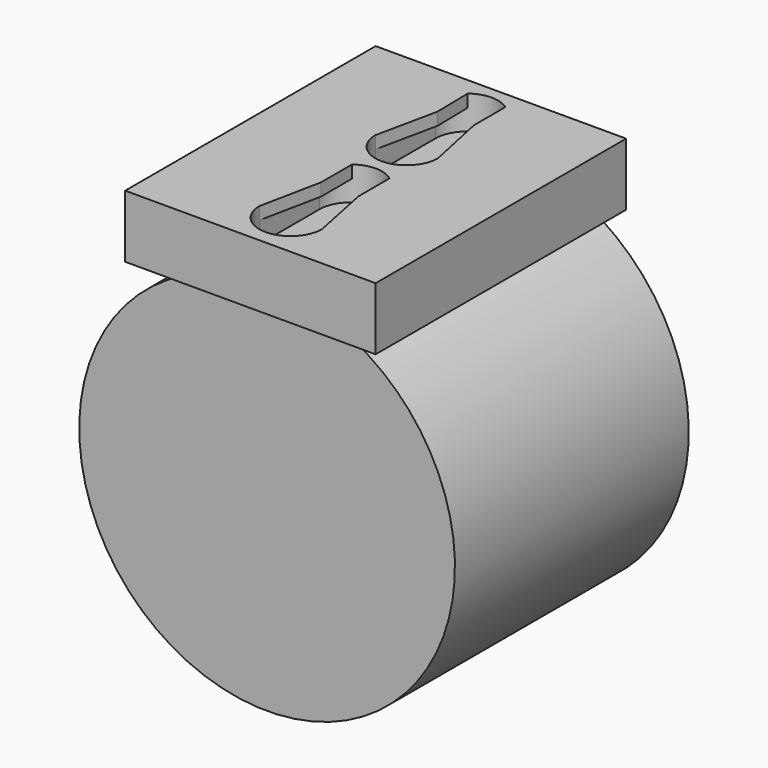
from build123d import *

# Parameters (mm, degrees)
F0_R     = 45
F1_DEPTH = 70
F2_W     = 60
F2_H     = 15
F3_DEPTH = 75
F5_DEPTH = 8
F7_DEPTH = 3


with BuildPart() as f1:
    # F0 (on Front) → F1 (new body)
    with BuildSketch(Plane.XZ):
        Circle(F0_R)
    extrude(amount=F1_DEPTH)

    # F2 (on Front) → F3 (join)
    with BuildSketch(Plane.XZ):
        with Locations((0, 49.5)):
            Rectangle(F2_W, F2_H)
    extrude(amount=F3_DEPTH)

    # F4 (on face) → F5 (cut)
    with BuildSketch(Plane.XY.offset(57)):
        with BuildLine():
            Line((7.5, -28.2193734366), (-7.5, -28.2193734366))
            ThreePointArc((-7.5, -28.2193734366), (0, -35.7193734366), (7.5, -28.2193734366))
        make_face()
        with BuildLine():
            ThreePointArc((7.5, -28.2193734366), (0, -20.7193734366), (-7.5, -28.2193734366))
            Line((-7.5, -28.2193734366), (7.5, -28.2193734366))
        make_face()
        with BuildLine():
            Line((7.5, -10.2193734366), (-7.5, -10.2193734366))
            ThreePointArc((-7.5, -10.2193734366), (0, -17.7193734366), (7.5, -10.2193734366))
        make_face()
        with BuildLine():
            Line((8.5, -46.1915741923), (-6.5, -46.1915741923))
            ThreePointArc((-6.5, -46.1915741923), (1, -53.6915741923), (8.5, -46.1915741923))
        make_face()
        with BuildLine():
            ThreePointArc((8.5, -64.1915741923), (1, -56.6915741923), (-6.5, -64.1915741923))
            Line((-6.5, -64.1915741923), (8.5, -64.1915741923))
        make_face()
        with BuildLine():
            Line((8.5, -64.1915741923), (-6.5, -64.1915741923))
            ThreePointArc((-6.5, -64.1915741923), (1, -71.6915741923), (8.5, -64.1915741923))
        make_face()
        with BuildLine():
            ThreePointArc((8.5, -46.1915741923), (1, -38.6915741923), (-6.5, -46.1915741923))
            Line((-6.5, -46.1915741923), (8.5, -46.1915741923))
        make_face()
        with BuildLine():
            ThreePointArc((7.5, -10.2193734366), (0, -2.7193734366), (-7.5, -10.2193734366))
            Line((-7.5, -10.2193734366), (7.5, -10.2193734366))
        make_face()
        with BuildLine():
            ThreePointArc((7.5, -10.2193734366), (0, -17.7193734366), (-7.5, -10.2193734366))
            Line((-7.5, -10.2193734366), (-7.5, -28.2193734366))
            ThreePointArc((-7.5, -28.2193734366), (0, -20.7193734366), (7.5, -28.2193734366))
            Line((7.5, -28.2193734366), (7.5, -10.2193734366))
        make_face()
        with BuildLine():
            ThreePointArc((8.5, -46.1915741923), (1, -53.6915741923), (-6.5, -46.1915741923))
            Line((-6.5, -46.1915741923), (-6.5, -64.1915741923))
            ThreePointArc((-6.5, -64.1915741923), (1, -56.6915741923), (8.5, -64.1915741923))
            Line((8.5, -64.1915741923), (8.5, -46.1915741923))
        make_face()
    extrude(amount=-F5_DEPTH, mode=Mode.SUBTRACT)

    # F6 (on face) → F7 (join)
    with BuildSketch(Plane.XY.offset(57)):
        with BuildLine():
            Line((-7.5, -10.2193734366), (-7.5, -28.2193734366))
            Line((-7.5, -28.2193734366), (-4.3874821937, -13.5458519471))
            Line((-4.3874821937, -13.5458519471), (-4.5479531951, -4.2556395614))
            ThreePointArc((-4.5479531951, -4.2556395614), (-6.7215938944, -6.8921861082), (-7.5, -10.2193734366))
        make_face()
        with BuildLine():
            Line((4.3874821937, -13.5458519471), (7.5, -28.2193734366))
            Line((7.5, -28.2193734366), (7.5, -10.2193734366))
            ThreePointArc((7.5, -10.2193734366), (6.67668018, -6.802951072), (4.3874821937, -4.1366109064))
            Line((4.3874821937, -4.1366109064), (4.3874821937, -13.5458519471))
        make_face()
        with BuildLine():
            Line((5.5, -49.4946357356), (8.5, -64.1915741923))
            Line((8.5, -64.1915741923), (8.5, -46.1915741923))
            ThreePointArc((8.5, -46.1915741923), (7.7082039325, -42.837472226), (5.5, -40.1915741923))
            Line((5.5, -40.1915741923), (5.5, -49.4946357356))
        make_face()
        with BuildLine():
            Line((-6.5, -46.1915741923), (-6.5, -64.1915741923))
            Line((-6.5, -64.1915741923), (-3.5, -49.4946357356))
            Line((-3.5, -49.4946357356), (-3.5, -40.1915741923))
            ThreePointArc((-3.5, -40.1915741923), (-5.7082039325, -42.837472226), (-6.5, -46.1915741923))
        make_face()
    extrude(amount=-F7_DEPTH)


solid = f1.part
